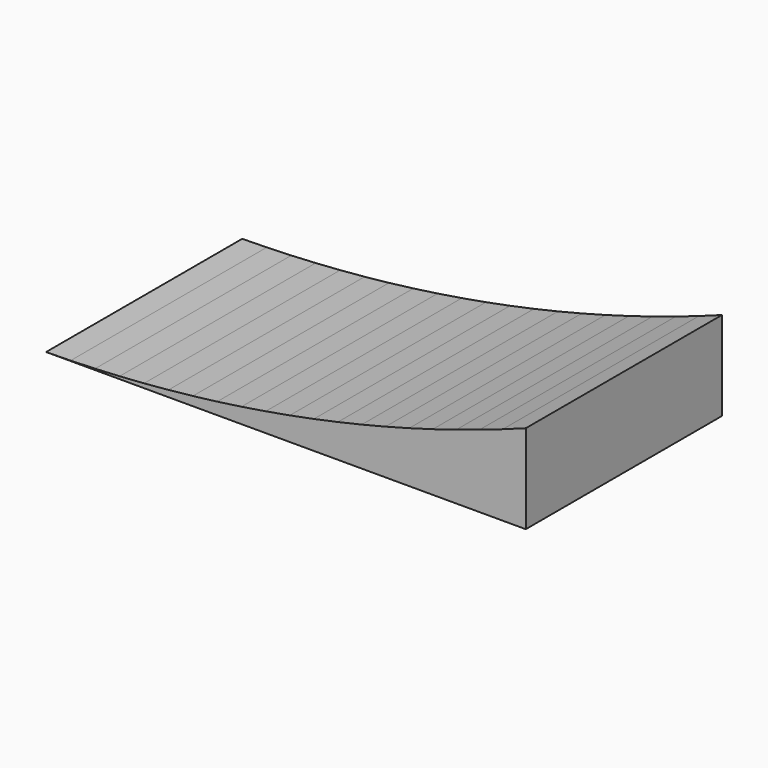
from build123d import *

# Parameters (mm, degrees)
EXTRUDE_DEPTH = 5000


with BuildPart() as part:
    # Sketch → Extrude (new body, symmetric)
    with BuildSketch(Plane.XZ):
        Polygon((0, 0), (999.847695, 17.452406), (1999.238522, 52.351903), (2997.868057, 104.687859), (3995.432107, 174.444333), (4991.626805, 261.600076), (5986.148701, 366.128539), (6978.694852, 487.997883), (7968.962921, 627.170984), (8956.651262, 783.605449), (9941.459015, 957.253626), (10923.086198, 1148.062622), (11901.233799, 1355.974312), (12875.603864, 1580.925367), (13845.89959, 1822.847262), (14811.825416, 2081.666307), (15773.087112, 2357.303663), (16729.391868, 2649.675368), (17680.448384, 2958.692362), (18625.96696, 3284.260517), (19565.659581, 3626.28066), (19565.660766, 0), align=None)
    extrude(amount=EXTRUDE_DEPTH, both=True)


solid = part.part
